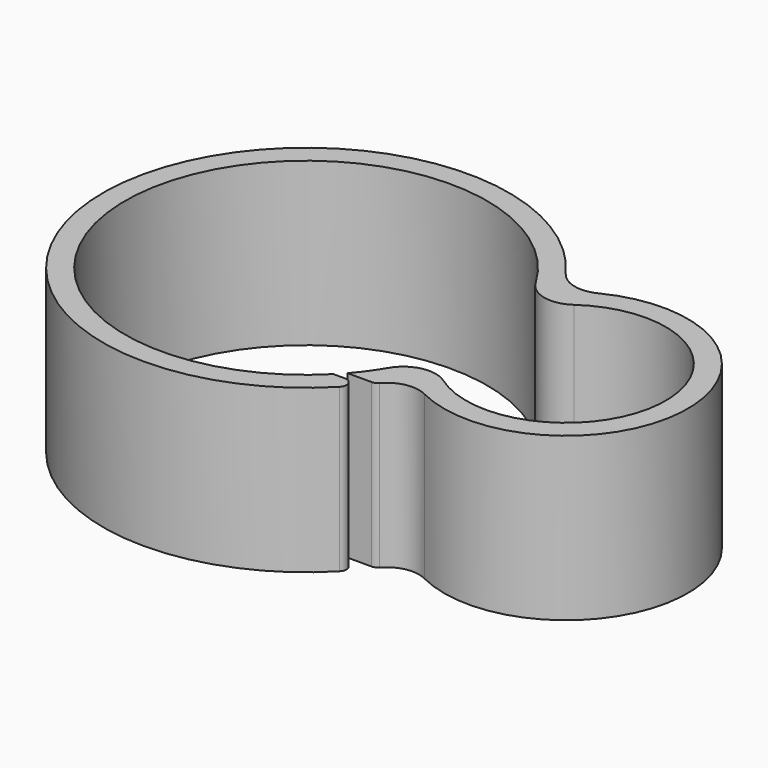
from build123d import *

# Parameters (mm, degrees)
F1_DEPTH = 10
F2_R     = 0.5


with BuildPart() as f1:
    # F0 (on Top) → F1 (new body)
    with BuildSketch(Plane.XY):
        with BuildLine():
            ThreePointArc((12.644737, 6.707623), (11.273702, 6.553866), (10.12931, 7.324416))
            ThreePointArc((10.12931, 7.324416), (-12.496047, 0.314325), (9.748257, -7.824416))
            Line((9.748257, -7.824416), (7.943615, -7.824416))
            ThreePointArc((7.943615, -7.824416), (-11.066329, 1.363397), (9.605216, 5.66236))
            ThreePointArc((9.605216, 5.66236), (10.9037, 4.723583), (12.474597, 5.03925))
            ThreePointArc((12.474597, 5.03925), (22.15, 0), (12.474597, -5.03925))
            ThreePointArc((12.474597, -5.03925), (10.9037, -4.723583), (9.605216, -5.66236))
            ThreePointArc((9.605216, -5.66236), (9.044302, -6.520974), (8.406868, -7.324416))
            Line((8.406868, -7.324416), (10.12931, -7.324416))
            ThreePointArc((10.12931, -7.324416), (11.273702, -6.553866), (12.644737, -6.707623))
            ThreePointArc((12.644737, -6.707623), (23.5, 0), (12.644737, 6.707623))
        make_face()
    extrude(amount=F1_DEPTH)

    # F2
    f2_edges = [f1.edges().sort_by_distance(p)[0] for p in [
        (9.748257, -7.824416, 5),
        (10.12931, -7.324416, 5),
    ]]
    fillet(f2_edges, radius=F2_R)


solid = f1.part
